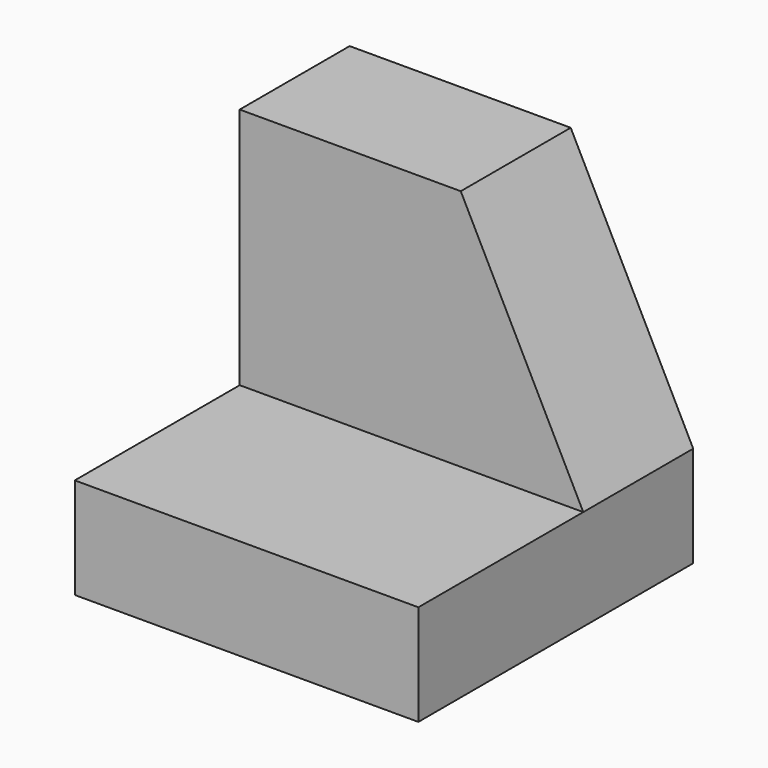
from build123d import *

# Parameters (mm, degrees)
F1_DEPTH = 31.75
F3_DEPTH = 25.4


with BuildPart() as f1:
    # F0 (on Right) → F1 (new body)
    with BuildSketch(Plane.YZ):
        Polygon((0, 9.325175), (0, 0), (31.75, 0), (31.75, 31.75), (19.05, 31.75), (19.05, 9.325175), align=None)
    extrude(amount=F1_DEPTH)

    # F2 (on face) → F3 (cut)
    with BuildSketch(Plane.XZ.offset(-19.05)):
        Polygon((31.75, 31.75), (20.428086, 31.75), (31.75, 9.325175), align=None)
    extrude(amount=-F3_DEPTH, mode=Mode.SUBTRACT)


solid = f1.part
